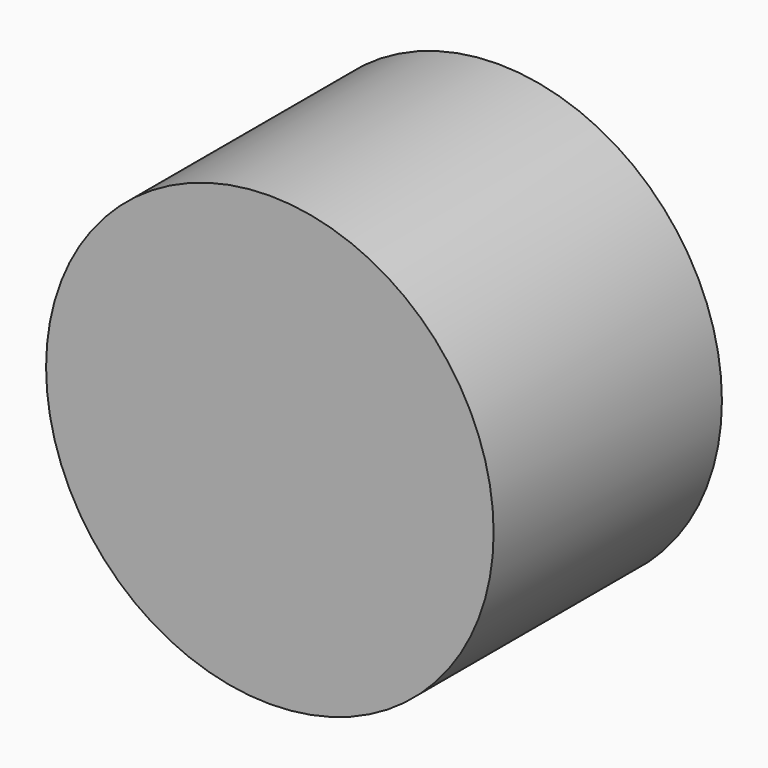
from build123d import *

# Parameters (mm, degrees)
F0_R      = 39.838561
F1_DEPTH  = 25.4
F1_FACE_R = 39.838561
F3_DEPTH  = 25.4


with BuildPart() as f1:
    # F0 (on Front) → F1 (new body)
    with BuildSketch(Plane.XZ):
        Circle(F0_R)
    extrude(amount=F1_DEPTH)

    # F1_face (on face) → F3 (join)
    with BuildSketch(Plane.XZ.offset(25.4)):
        Circle(F1_FACE_R)
        Circle(F1_FACE_R)
    extrude(amount=F3_DEPTH)


solid = f1.part
